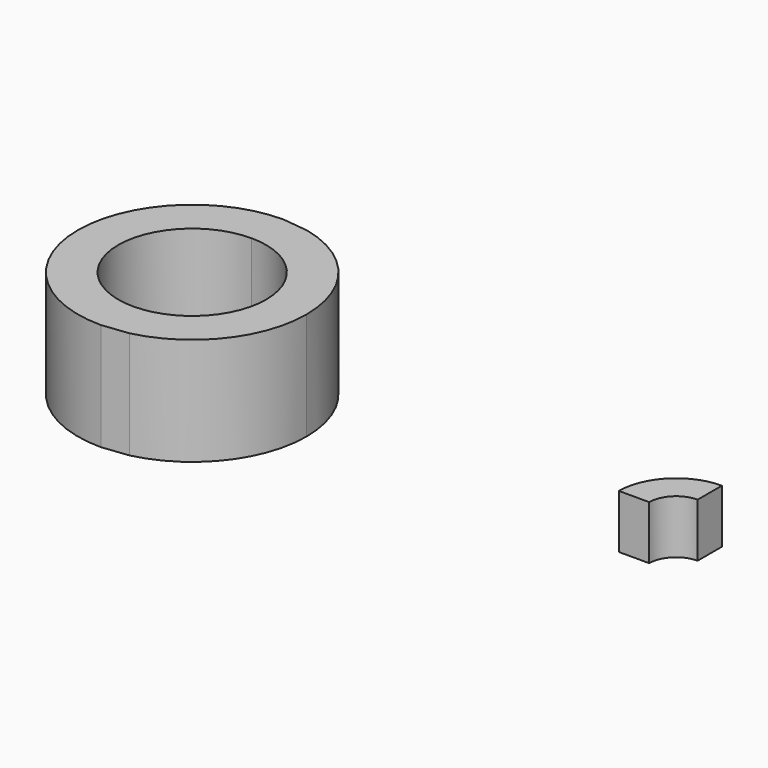
from build123d import *

# Parameters (mm, degrees)
F1_DEPTH = 50.8
F2_DEPTH = 25.4


with BuildPart() as f1:
    # F0 (on Top) → F1 (new body)
    with BuildSketch(Plane.XY):
        with BuildLine():
            ThreePointArc((-228.6, 34.925), (-203.9042956671, 24.6957043329), (-193.675, 0))
            Line((-193.675, 0), (-174.625, 0))
            ThreePointArc((-174.625, 0), (-186.2316408983, 33.4398380981), (-216.0598410201, 52.4980479424))
            Line((-216.0598410201, 52.4980479424), (-228.6, 53.975))
            ThreePointArc((-228.6, 53.975), (-282.575, 0), (-228.6, -53.975))
            Line((-228.6, -53.975), (-228.6, -34.925))
            ThreePointArc((-228.6, -34.925), (-263.525, 0), (-228.6, 34.925))
        make_face()
        with BuildLine():
            Line((-174.625, 0), (-193.675, 0))
            ThreePointArc((-193.675, 0), (-203.9042956671, -24.6957043329), (-228.6, -34.925))
            Line((-228.6, -34.925), (-228.6, -53.975))
            Line((-228.6, -53.975), (-216.1434145399, -52.5179407791))
            ThreePointArc((-216.1434145399, -52.5179407791), (-186.2582663014, -33.4735449631), (-174.625, 0))
        make_face()
    extrude(amount=F1_DEPTH)


with BuildPart() as f2:
    # F0 (on Top) → F2 (new body)
    with BuildSketch(Plane.XY):
        with BuildLine():
            Line((0, 12.7), (0, 27.051))
            ThreePointArc((0, 27.051), (-19.1279455379, 19.1279455379), (-27.051, 0))
            Line((-27.051, 0), (-12.7, 0))
            ThreePointArc((-12.7, 0), (-8.9802561211, 8.9802561211), (0, 12.7))
        make_face()
    extrude(amount=F2_DEPTH)


solid = Compound([f1.part, f2.part])
